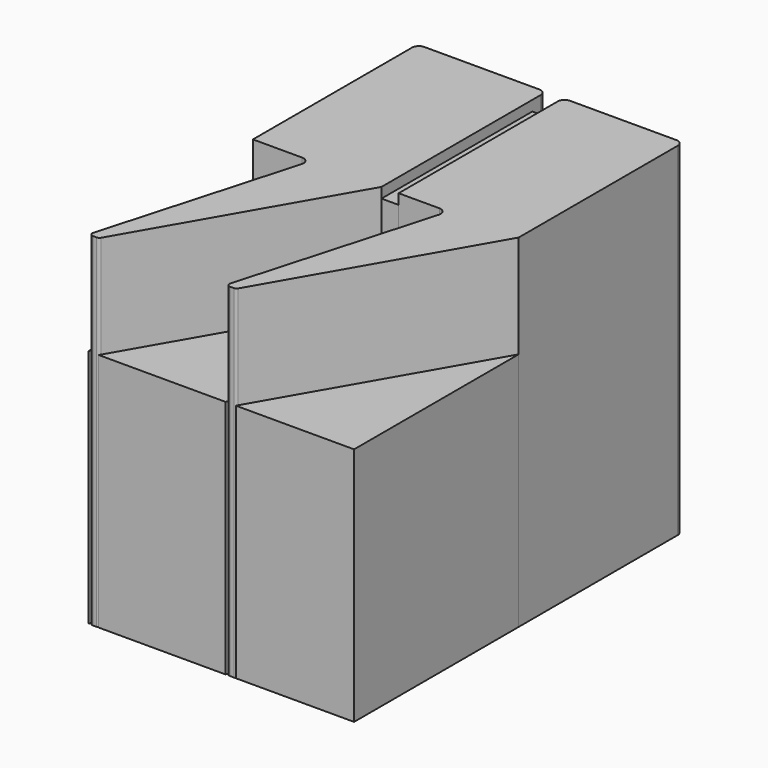
from build123d import *

# Parameters (mm, degrees)
F1_DEPTH  = 100
F2_DEPTH  = 70
F0_W      = 5
F0_H      = 60
F3_DEPTH  = 97
F3_FACE_W = 5
F3_FACE_H = 97
F4_DEPTH  = 5
F5_R      = 2
F6_R      = 2
F7_R      = 2
F8_R      = 2
F9_R      = 1
F10_R     = 1
F11_R     = 1


with BuildPart() as f1:
    # F0 (on Top) → F1 (new body)
    with BuildSketch(Plane.XY):
        Polygon((-2.5, 0), (-2.5, 60), (-40, 60), (-40, 0), (-23, 0), (-40, -60), (-37, -60), align=None)
        Polygon((37.5, 0), (37.5, 60), (2.5, 60), (2.5, 0), (17, 0), (0, -60), (3, -60), align=None)
    extrude(amount=F1_DEPTH)

    # F5
    f5_edges = [f1.edges().sort_by_distance(p)[0] for p in [
        (-2.5, 60, 50),
    ]]
    fillet(f5_edges, radius=F5_R)

    # F6
    f6_edges = [f1.edges().sort_by_distance(p)[0] for p in [
        (-40, 60, 50),
    ]]
    fillet(f6_edges, radius=F6_R)

    # F7
    f7_edges = [f1.edges().sort_by_distance(p)[0] for p in [
        (2.5, 60, 50),
        (37.5, 60, 50),
    ]]
    fillet(f7_edges, radius=F7_R)

    # F8
    f8_edges = [f1.edges().sort_by_distance(p)[0] for p in [
        (-23, 0, 50),
        (17, 0, 50),
    ]]
    fillet(f8_edges, radius=F8_R)

    # F9
    f9_edges = [f1.edges().sort_by_distance(p)[0] for p in [
        (-40, -60, 50),
    ]]
    fillet(f9_edges, radius=F9_R)

    # F10
    f10_edges = [f1.edges().sort_by_distance(p)[0] for p in [
        (0, -60, 50),
    ]]
    fillet(f10_edges, radius=F10_R)

    # F11
    f11_edges = [f1.edges().sort_by_distance(p)[0] for p in [
        (-37, -60, 50),
        (3, -60, 50),
    ]]
    fillet(f11_edges, radius=F11_R)


with BuildPart() as f2:
    # F0 (on Top) → F2 (new body)
    with BuildSketch(Plane.XY):
        Polygon((-23, 0), (-40, 0), (-40, -60), align=None)
        Polygon((17, 0), (2.5, 0), (-2.5, 0), (-37, -60), (0, -60), align=None)
        Polygon((37.5, -60), (37.5, 0), (3, -60), align=None)
    extrude(amount=F2_DEPTH)


with BuildPart() as f3:
    # F0 (on Top) → F3 (new body)
    with BuildSketch(Plane.XY):
        with Locations((0, 30)):
            Rectangle(F0_W, F0_H)
    extrude(amount=F3_DEPTH)

    # F3_face (on face) → F4 (cut)
    with BuildSketch(Plane(origin=(0, 60, 48.5), x_dir=(-1, 0, 0), z_dir=(0, 1, 0))):
        Rectangle(F3_FACE_W, F3_FACE_H)
    extrude(amount=-F4_DEPTH, mode=Mode.SUBTRACT)


solid = Compound([f1.part, f2.part, f3.part])
